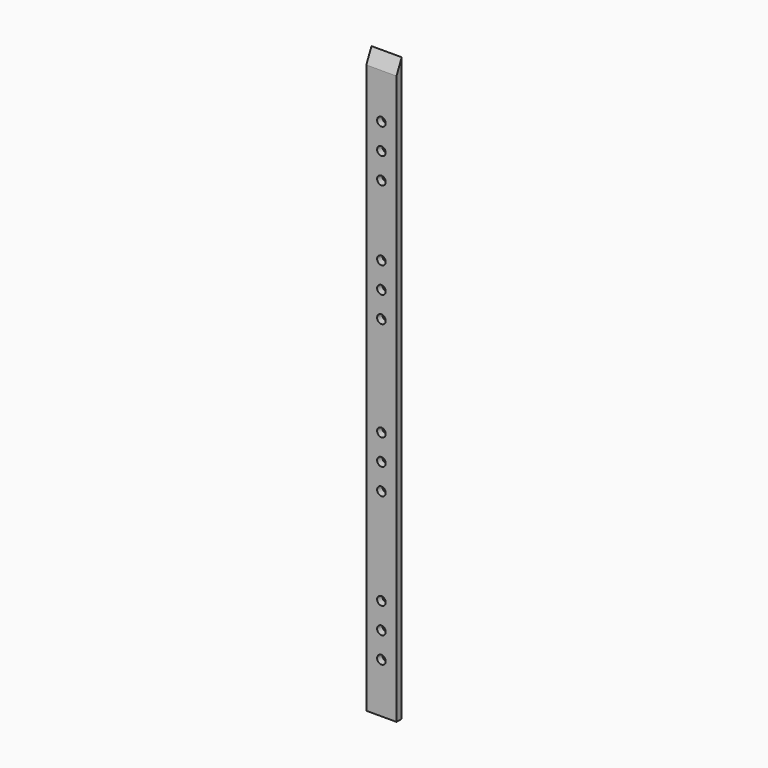
from build123d import *

# Parameters (mm, degrees)
F0_W     = 88.9
F0_H     = 1715.224484
F0_R     = 12.7
F1_DEPTH = 19.05
F3_DEPTH = 88.901


with BuildPart() as f1:
    # F0 (on Front) → F1 (new body)
    with BuildSketch(Plane.XZ):
        with Locations((-1388.109314, -537.817911)):
            Rectangle(F0_W, F0_H)
        with Locations((-1388.109314, -1248.586403)):
            Circle(F0_R, mode=Mode.SUBTRACT)
        with Locations((-1388.109314, -1172.386403)):
            Circle(F0_R, mode=Mode.SUBTRACT)
        with Locations((-1388.109314, -1096.186403)):
            Circle(F0_R, mode=Mode.SUBTRACT)
        with Locations((-1388.109314, -812.023903)):
            Circle(F0_R, mode=Mode.SUBTRACT)
        with Locations((-1388.109314, -735.823903)):
            Circle(F0_R, mode=Mode.SUBTRACT)
        with Locations((-1388.109314, -659.623903)):
            Circle(F0_R, mode=Mode.SUBTRACT)
        with Locations((-1388.109314, -365.936403)):
            Circle(F0_R, mode=Mode.SUBTRACT)
        with Locations((-1388.109314, -289.736403)):
            Circle(F0_R, mode=Mode.SUBTRACT)
        with Locations((-1388.109314, -213.536403)):
            Circle(F0_R, mode=Mode.SUBTRACT)
        with Locations((-1388.109314, -6.367653)):
            Circle(F0_R, mode=Mode.SUBTRACT)
        with Locations((-1388.109314, 69.832347)):
            Circle(F0_R, mode=Mode.SUBTRACT)
        with Locations((-1388.109314, 146.032347)):
            Circle(F0_R, mode=Mode.SUBTRACT)
    extrude(amount=F1_DEPTH)

    # F2 (on face) → F3 (cut, through all)
    with BuildSketch(Plane(origin=(-1432.559314, 0, 0), x_dir=(0, -1, 0), z_dir=(-1, 0, 0))):
        Polygon((19.05, 319.794331), (0, 319.794331), (19.05, 278.785859), align=None)
    extrude(amount=-F3_DEPTH, mode=Mode.SUBTRACT)


solid = f1.part
